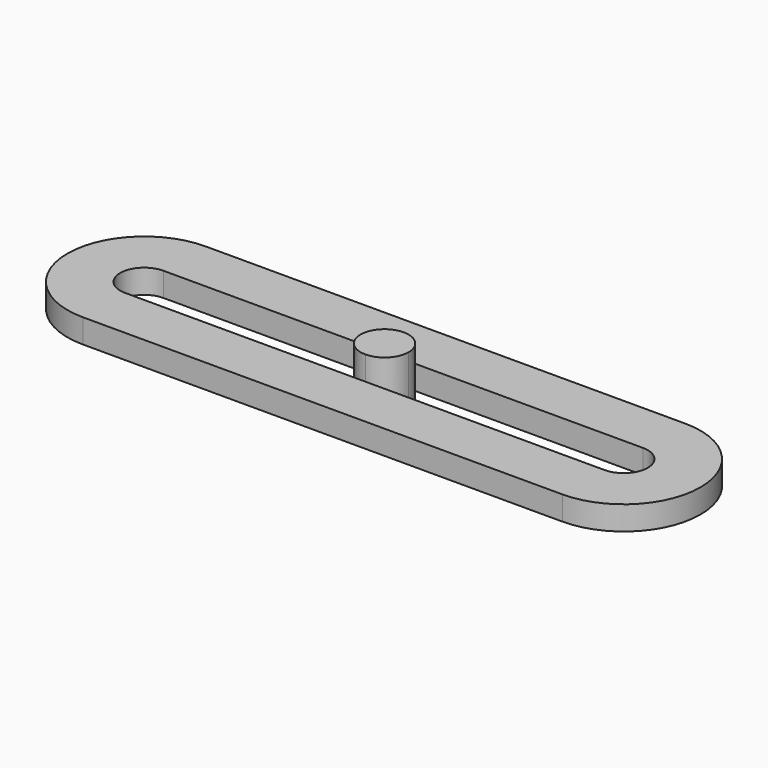
from build123d import *

# Parameters (mm, degrees)
F1_DEPTH = 5
F2_DEPTH = 15


with BuildPart() as f1:
    # F0 (on Top) → F1 (new body, symmetric)
    with BuildSketch(Plane.XY):
        with BuildLine():
            Line((99.761558, 32.000002), (-100.238442, 32.000002))
            ThreePointArc((-100.238442, 32.000002), (-132.238444, 0), (-100.238442, -32.000002))
            Line((-100.238442, -32.000002), (99.761558, -32.000002))
            ThreePointArc((99.761558, -32.000002), (131.761559, 0), (99.761558, 32.000002))
        make_face()
        with BuildLine():
            Line((0, -10), (-100.238442, -10))
            ThreePointArc((-100.238442, -10), (-110.238442, 0), (-100.238442, 10))
            Line((-100.238442, 10), (0, 10))
            Line((0, 10), (99.761558, 10))
            ThreePointArc((99.761558, 10), (109.761558, 0), (99.761558, -10))
            Line((99.761558, -10), (0, -10))
        make_face(mode=Mode.SUBTRACT)
    extrude(amount=F1_DEPTH, both=True)

    # F0 (on Top) → F2 (join, symmetric)
    with BuildSketch(Plane.XY):
        with BuildLine():
            ThreePointArc((0, 10), (-10, 0), (0, -10))
            ThreePointArc((0, -10), (7.071068, -7.071068), (10, 0))
            ThreePointArc((10, 0), (7.071068, 7.071068), (0, 10))
        make_face()
    extrude(amount=F2_DEPTH, both=True)


solid = f1.part
